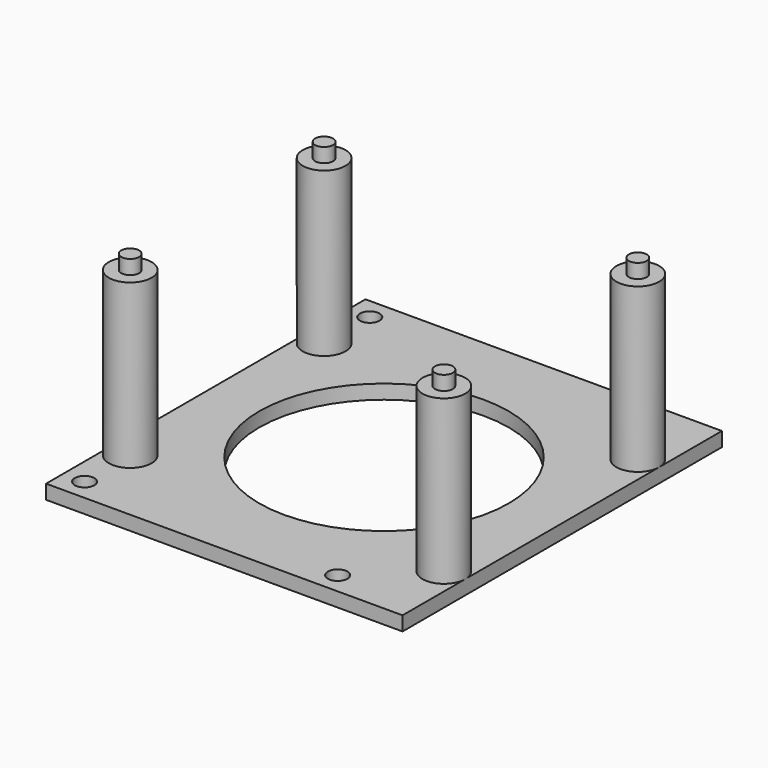
from build123d import *

# Parameters (mm, degrees)
SKETCH_W     = 50
SKETCH_H     = 56
SKETCH_R     = 1.375
SKETCH_R_2   = 17.5
PAD_DEPTH    = 2
SKETCH001_R  = 3
PAD001_DEPTH = 24.9
SKETCH002_R  = 1.25
PAD002_DEPTH = 26.9


with BuildPart() as part:
    # Sketch → Pad (new body)
    with BuildSketch(Plane.XY):
        Rectangle(SKETCH_W, SKETCH_H)
        with Locations((-22, 25)):
            Circle(SKETCH_R, mode=Mode.SUBTRACT)
        with Locations((13.5, 25)):
            Circle(SKETCH_R, mode=Mode.SUBTRACT)
        with Locations((-22, -25)):
            Circle(SKETCH_R, mode=Mode.SUBTRACT)
        with Locations((13.5, -25)):
            Circle(SKETCH_R, mode=Mode.SUBTRACT)
        Circle(SKETCH_R_2, mode=Mode.SUBTRACT)
    extrude(amount=PAD_DEPTH)

    # Sketch001 → Pad001 (join)
    with BuildSketch(Plane.XY):
        with Locations((-22, 17)):
            Circle(SKETCH001_R)
        with Locations((22, 17)):
            Circle(SKETCH001_R)
        with Locations((22, -17)):
            Circle(SKETCH001_R)
        with Locations((-22, -17)):
            Circle(SKETCH001_R)
    extrude(amount=PAD001_DEPTH)

    # Sketch002 → Pad002 (join)
    with BuildSketch(Plane.XY):
        with Locations((-22, 17)):
            Circle(SKETCH002_R)
        with Locations((22, 17)):
            Circle(SKETCH002_R)
        with Locations((22, -17)):
            Circle(SKETCH002_R)
        with Locations((-22, -17)):
            Circle(SKETCH002_R)
    extrude(amount=PAD002_DEPTH)


solid = part.part
